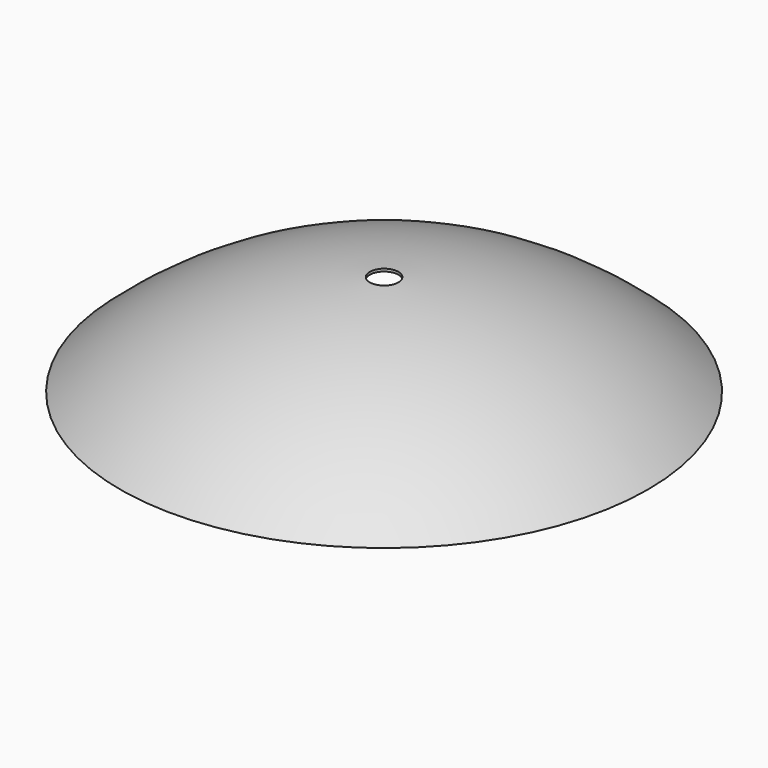
from build123d import *

# Parameters (mm, degrees)
F2_T     = 1
F3_R     = 5.5
F4_DEPTH = 20.001


with BuildPart() as f1:
    # F0 (on Front) → F1 (revolve)
    with BuildSketch(Plane.XZ):
        with BuildLine():
            Line((0, 19), (0, -19))
            Line((0, -19), (100, -19))
            ThreePointArc((100, -19), (53.4883164813, 9.1797802139), (0, 19))
        make_face()
    revolve(axis=Axis((0, 0, 0), (0, 0, -1)))

    # F2
    f2_openings = [f1.faces().sort_by_distance(p)[0] for p in [
        (0, 0, -19),
    ]]
    offset(amount=F2_T, openings=f2_openings)

    # F3 (on Top) → F4 (cut, through all)
    with BuildSketch(Plane.XY):
        Circle(F3_R)
    extrude(amount=F4_DEPTH, mode=Mode.SUBTRACT)


solid = f1.part
